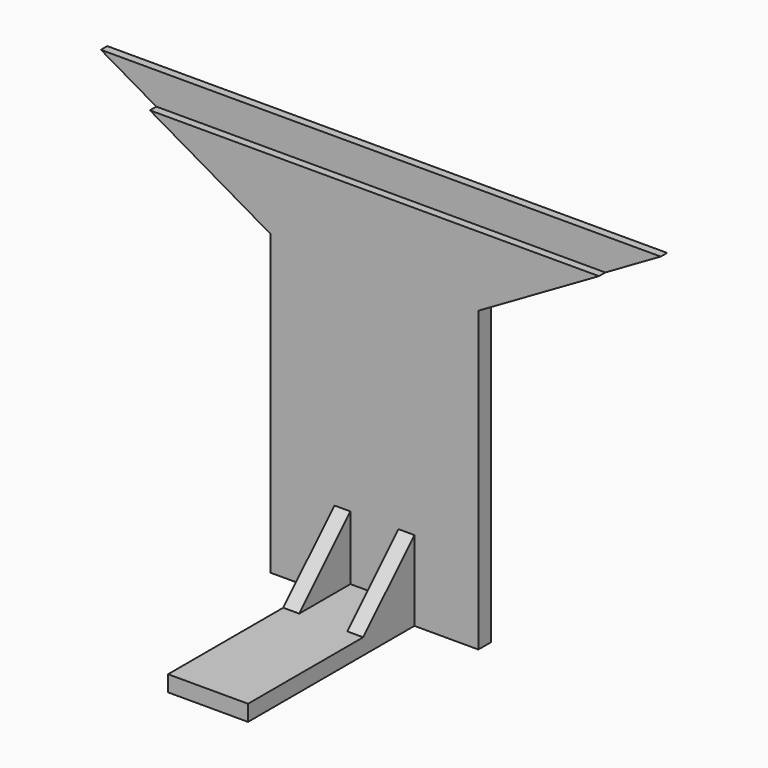
from build123d import *

# Parameters (mm, degrees)
F1_DEPTH  = 6.35
F3_W      = 31.75
F3_H      = 6.35
F4_DEPTH  = 82.55
F6_DEPTH  = 6.35
F9_W      = 3.175
F9_H      = 12.7
F10_DEPTH = 222.25


with BuildPart() as f1:
    # F0 (on Front) → F1 (new body)
    with BuildSketch(Plane.XZ):
        Polygon((-41.275, 64.447084), (-41.275, 104.775), (-111.125, 104.775), align=None)
        Polygon((0, 104.775), (-41.275, 104.775), (-41.275, 64.447084), (-41.275, -53.975), (0, -53.975), align=None)
    extrude(amount=-F1_DEPTH)

    # F2: F1 across plane


with BuildPart() as f1_1:
    add(f1.part)
    add(f1.part.mirror(Plane.YZ))

    # F3 (on Front) → F4 (join)
    with BuildSketch(Plane.XZ):
        with Locations((0, -50.8)):
            Rectangle(F3_W, F3_H)
    extrude(amount=F4_DEPTH)

    # F5 (on face) → F6 (join)
    with BuildSketch(Plane.YZ.offset(15.875)):
        Polygon((0, -22.225), (-25.4, -47.625), (0, -47.625), align=None)
    extrude(amount=-F6_DEPTH)

    # F7: F1 across plane


with BuildPart() as f1_2:
    add(f1_1.part)
    add(f1_1.part.mirror(Plane.YZ))

    # F9 (on offset) → F10 (cut)
    with BuildSketch(Plane.YZ.offset(111.125)):
        with Locations((1.5875, 98.425)):
            Rectangle(F9_W, F9_H)
    extrude(amount=-F10_DEPTH, mode=Mode.SUBTRACT)


solid = f1_2.part
